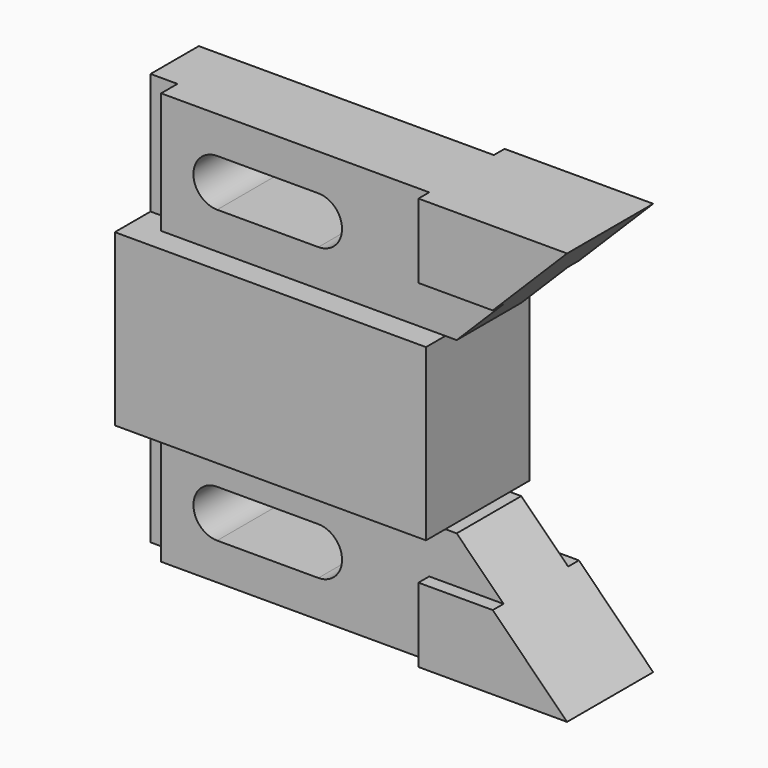
from build123d import *

# Parameters (mm, degrees)
F0_W      = 6.35
F0_H      = 28.575
F1_DEPTH  = 9.525
F2_DEPTH  = 12.7
F3_DEPTH  = 15.24
F4_DEPTH  = 12.7
F5_W      = 6.35
F5_H      = 28.575
F6_DEPTH  = 4.826
F7_DEPTH  = 12.7
F8_DEPTH  = 15.24
F9_DEPTH  = 12.7
F10_W     = 6.35
F10_H     = 28.575
F11_DEPTH = 4.826


with BuildPart() as f1:
    # F0 (on Front) → F1 (new body, symmetric)
    with BuildSketch(Plane.XZ):
        with Locations((-49.149, 0)):
            Rectangle(F0_W, F0_H)
        Polygon((17.272, 14.2875), (-45.974, 14.2875), (-45.974, -14.2875), (21.082, -14.2875), (23.749, -14.2875), (34.798, -3.2385), (17.272, -3.2385), align=None)
        with BuildLine():
            Line((-32.760566, 5.588), (-8.884566, 5.588))
            ThreePointArc((-8.884566, 5.588), (-3.296566, 0), (-8.884566, -5.588))
            Line((-8.884566, -5.588), (-32.760566, -5.588))
            ThreePointArc((-32.760566, -5.588), (-38.348566, 0), (-32.760566, 5.588))
        make_face(mode=Mode.SUBTRACT)
        Polygon((-45.974, -14.2875), (-52.324, -14.2875), (-52.324, -34.3535), (21.082, -34.3535), (21.082, -14.2875), align=None)
        Polygon((52.324, 14.2875), (17.272, 14.2875), (17.272, -3.2385), (34.798, -3.2385), align=None)
        Polygon((21.082, -34.3535), (-52.324, -34.3535), (-52.324, -54.4195), (-45.974, -54.4195), (21.082, -54.4195), align=None)
        Polygon((52.324, -14.2875), (52.324, 14.2875), (34.798, -3.2385), (23.749, -14.2875), align=None)
        with Locations((-49.149, -68.707)):
            Rectangle(F0_W, F0_H)
        Polygon((23.749, -54.4195), (21.082, -54.4195), (-45.974, -54.4195), (-45.974, -82.9945), (17.272, -82.9945), (17.272, -65.4685), (34.798, -65.4685), align=None)
        with BuildLine():
            ThreePointArc((-8.884566, -63.119), (-3.296566, -68.707), (-8.884566, -74.295))
            Line((-8.884566, -74.295), (-32.760566, -74.295))
            ThreePointArc((-32.760566, -74.295), (-38.348566, -68.707), (-32.760566, -63.119))
            Line((-32.760566, -63.119), (-8.884566, -63.119))
        make_face(mode=Mode.SUBTRACT)
        Polygon((52.324, -54.4195), (23.749, -54.4195), (34.798, -65.4685), (52.324, -82.9945), align=None)
        Polygon((52.324, -82.9945), (34.798, -65.4685), (17.272, -65.4685), (17.272, -82.9945), align=None)
    extrude(amount=F1_DEPTH, both=True)

    # F0 (on Front) → F2 (cut, symmetric)
    with BuildSketch(Plane.XZ):
        Polygon((52.324, -14.2875), (52.324, 14.2875), (34.798, -3.2385), (23.749, -14.2875), align=None)
    extrude(amount=F2_DEPTH, both=True, mode=Mode.SUBTRACT)

    # F0 (on Front) → F3 (join, symmetric)
    with BuildSketch(Plane.XZ):
        Polygon((-45.974, -14.2875), (-52.324, -14.2875), (-52.324, -34.3535), (21.082, -34.3535), (21.082, -14.2875), align=None)
    extrude(amount=F3_DEPTH, both=True)

    # F0 (on Front) → F4 (join, symmetric)
    with BuildSketch(Plane.XZ):
        Polygon((52.324, 14.2875), (17.272, 14.2875), (17.272, -3.2385), (34.798, -3.2385), align=None)
    extrude(amount=F4_DEPTH, both=True)

    # F5 (on face) → F6 (cut)
    with BuildSketch(Plane.XZ.offset(9.525)):
        with Locations((-49.149, 0)):
            Rectangle(F5_W, F5_H)
    extrude(amount=-F6_DEPTH, mode=Mode.SUBTRACT)

    # F0 (on Front) → F7 (cut, symmetric)
    with BuildSketch(Plane.XZ):
        Polygon((52.324, -54.4195), (23.749, -54.4195), (34.798, -65.4685), (52.324, -82.9945), align=None)
    extrude(amount=F7_DEPTH, both=True, mode=Mode.SUBTRACT)

    # F0 (on Front) → F8 (join, symmetric)
    with BuildSketch(Plane.XZ):
        Polygon((21.082, -34.3535), (-52.324, -34.3535), (-52.324, -54.4195), (-45.974, -54.4195), (21.082, -54.4195), align=None)
    extrude(amount=F8_DEPTH, both=True)

    # F0 (on Front) → F9 (join, symmetric)
    with BuildSketch(Plane.XZ):
        Polygon((52.324, -82.9945), (34.798, -65.4685), (17.272, -65.4685), (17.272, -82.9945), align=None)
    extrude(amount=F9_DEPTH, both=True)

    # F10 (on face) → F11 (cut)
    with BuildSketch(Plane.XZ.offset(9.525)):
        with Locations((-49.149, -68.707)):
            Rectangle(F10_W, F10_H)
    extrude(amount=-F11_DEPTH, mode=Mode.SUBTRACT)


solid = f1.part
